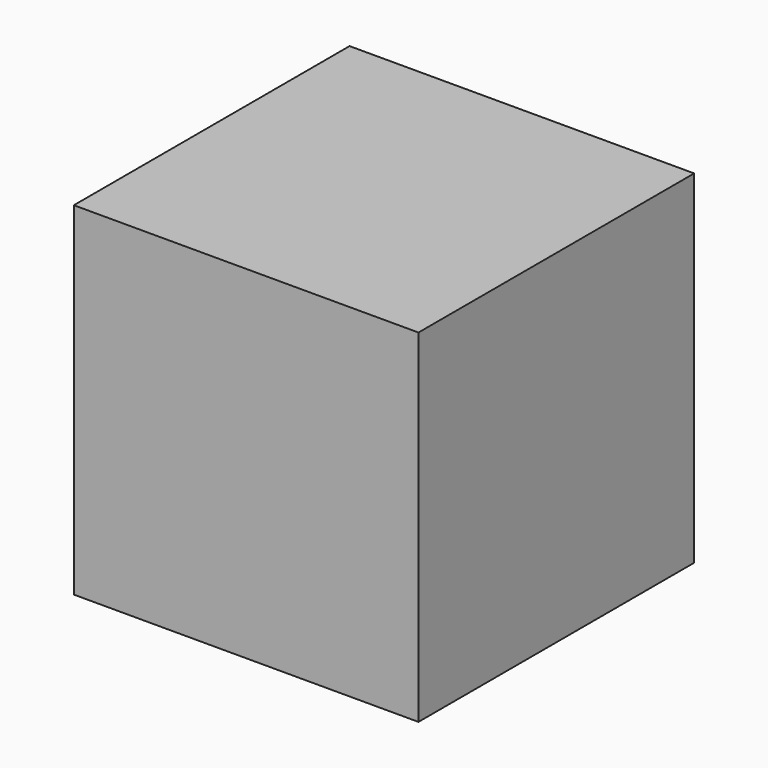
from build123d import *

# Parameters (mm, degrees)
F0_W     = 100
F0_H     = 99.4736854108
F1_DEPTH = 50
F0_W_2   = 99.9998
F0_H_2   = 12.63157548


with BuildPart() as f1:
    # F0 (on Front) → F1 (new body, symmetric)
    with BuildSketch(Plane.XZ):
        Rectangle(F0_W, F0_H)
    extrude(amount=F1_DEPTH, both=True)


with BuildPart() as f1b:
    # F0 (on Front) → F1, piece 2 (new body, symmetric)
    with BuildSketch(Plane.XZ):
        with Locations((0, 60.2631566611)):
            Rectangle(F0_W_2, F0_H_2)
    extrude(amount=F1_DEPTH, both=True)


solid = f1.part
